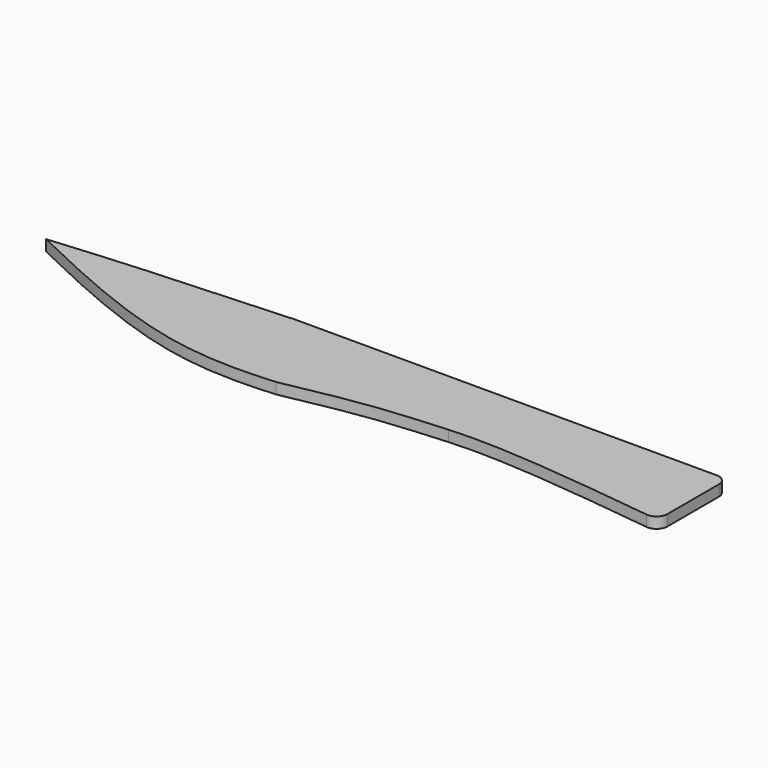
from build123d import *

# Parameters (mm, degrees)
F2_DEPTH = 3.175


with BuildPart() as f2:
    # F1 (on face) → F2 (new body)
    with BuildSketch(Plane.XY):
        with BuildLine():
            Line((0, 3.5937239541), (0, 22.225))
            ThreePointArc((0, 22.225), (-0.9299359697, 24.4700640303), (-3.175, 25.4))
            Line((-3.175, 25.4), (-125.451490283, 25.4))
            add(Edge.make_bspline(
                [(-125.451490283, 25.4), (-142.8514900721, 24.4721937807), (-171.8785898615, 22.9561037859), (-187.7277216098, 21.5108513963), (-194.0673072403, 20.9622148363)],
                knots=[0, 0, 0, 0, 0.5995111367, 1, 1, 1, 1], degree=3))
            add(Edge.make_bspline(
                [(-194.0673072403, 20.9622148363), (-174.9245548495, 11.7224689333), (-144.2175576914, -2.1412445418), (-119.0666443103, -1.9392495317), (-109.6142492244, -1.2168823249)],
                knots=[0.0768337699, 0.0768337699, 0.0768337699, 0.0768337699, 0.5607472712, 0.8648996419, 0.8648996419, 0.8648996419, 0.8648996419], degree=3))
            add(Edge.make_bspline(
                [(-109.6142492244, -1.2168823249), (-101.7091313843, 0.3658590159), (-86.2715771578, 3.4567233621), (-71.6592375485, 4.4395318018), (-64.5294487476, 4.9190726131)],
                knots=[0, 0, 0, 0, 0.512070683, 1, 1, 1, 1], degree=3))
            add(Edge.make_bspline(
                [(-64.5294487476, 4.9190726131), (-49.5023410558, 6.0017634427), (-26.723146583, 3.3142893073), (-3.5656958334, 0.4428539527)],
                knots=[0.3711714011, 0.3711714011, 0.3711714011, 0.3711714011, 0.9693170769, 0.9693170769, 0.9693170769, 0.9693170769], degree=3))
            ThreePointArc((-3.5656958334, 0.4428539527), (-1.0726006886, 1.2145345679), (0, 3.5937239541))
        make_face()
    extrude(amount=F2_DEPTH)


solid = f2.part
